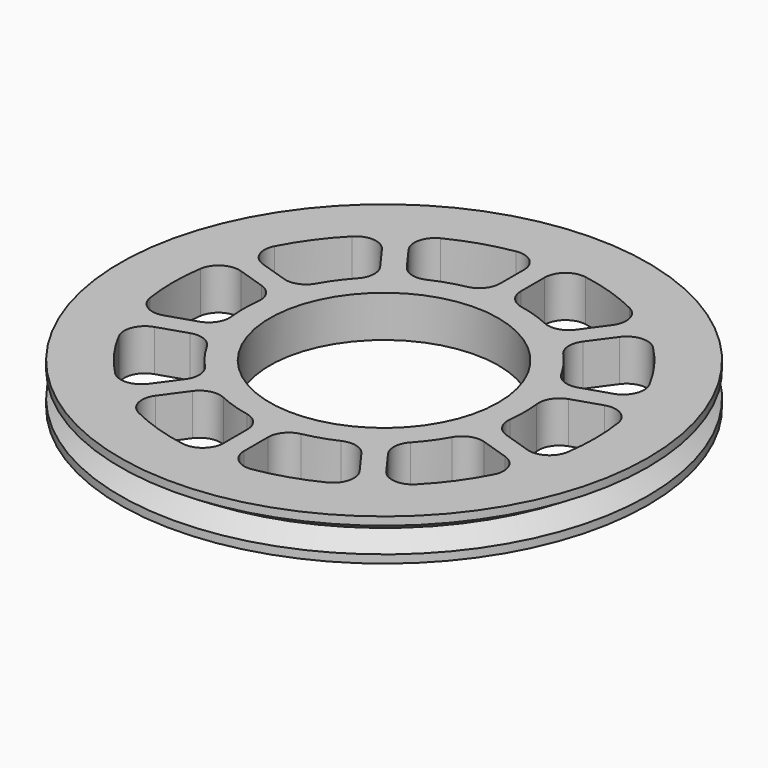
from build123d import *

# Parameters (mm, degrees)
F0_R     = 25.4
F0_R_2   = 11
F1_DEPTH = 2


with BuildPart() as f1:
    # F0 (on Top) → F1 (new body, symmetric)
    with BuildSketch(Plane.XY):
        Circle(F0_R)
        with BuildLine():
            ThreePointArc((-9.090554, -18.173173), (-10.138809, -16.858575), (-9.813848, -15.208905))
            Line((-9.813848, -15.208905), (-8.129378, -12.890431))
            ThreePointArc((-8.129378, -12.890431), (-7.014806, -12.130407), (-5.671171, -12.251033))
            ThreePointArc((-5.671171, -12.251033), (-4.171729, -12.839263), (-2.612903, -13.244725))
            ThreePointArc((-2.612903, -13.244725), (-1.454977, -13.936905), (-1, -15.206906))
            Line((-1, -15.206906), (-1, -18.072698))
            ThreePointArc((-1, -18.072698), (-1.706753, -19.598316), (-3.327511, -20.0457))
            ThreePointArc((-3.327511, -20.0457), (-6.279225, -19.325468), (-9.090554, -18.173173))
        make_face(mode=Mode.SUBTRACT)
        with BuildLine():
            ThreePointArc((-18.036336, -9.359113), (-18.11169, -7.679431), (-16.87914, -6.535827))
            Line((-16.87914, -6.535827), (-14.15361, -5.650249))
            ThreePointArc((-14.15361, -5.650249), (-12.805172, -5.690506), (-11.78905, -6.577864))
            ThreePointArc((-11.78905, -6.577864), (-10.921729, -7.935101), (-9.898937, -9.179382))
            ThreePointArc((-9.898937, -9.179382), (-9.369008, -10.419979), (-9.747412, -11.71486))
            Line((-9.747412, -11.71486), (-11.431882, -14.033334))
            ThreePointArc((-11.431882, -14.033334), (-12.900393, -14.852167), (-14.474579, -14.26145))
            ThreePointArc((-14.474579, -14.26145), (-16.439225, -11.943796), (-18.036336, -9.359113))
        make_face(mode=Mode.SUBTRACT)
        with BuildLine():
            ThreePointArc((-20.092851, 3.029811), (-19.166522, 4.432995), (-17.497174, 4.633714))
            Line((-17.497174, 4.633714), (-14.771644, 3.748136))
            ThreePointArc((-14.771644, 3.748136), (-13.704397, 2.922975), (-13.403913, 1.607826))
            ThreePointArc((-13.403913, 1.607826), (-13.5, 0), (-13.403913, -1.607826))
            ThreePointArc((-13.403913, -1.607826), (-13.704397, -2.922975), (-14.771644, -3.748136))
            Line((-14.771644, -3.748136), (-17.497174, -4.633714))
            ThreePointArc((-17.497174, -4.633714), (-19.166522, -4.432995), (-20.092851, -3.029811))
            ThreePointArc((-20.092851, -3.029811), (-20.32, 0), (-20.092851, 3.029811))
        make_face(mode=Mode.SUBTRACT)
        Circle(F0_R_2, mode=Mode.SUBTRACT)
        with BuildLine():
            ThreePointArc((3.327511, -20.0457), (1.706753, -19.598316), (1, -18.072698))
            Line((1, -18.072698), (1, -15.206906))
            ThreePointArc((1, -15.206906), (1.454977, -13.936905), (2.612903, -13.244725))
            ThreePointArc((2.612903, -13.244725), (4.171729, -12.839263), (5.671171, -12.251033))
            ThreePointArc((5.671171, -12.251033), (7.014806, -12.130407), (8.129378, -12.890431))
            Line((8.129378, -12.890431), (9.813848, -15.208905))
            ThreePointArc((9.813848, -15.208905), (10.138809, -16.858575), (9.090554, -18.173173))
            ThreePointArc((9.090554, -18.173173), (6.279225, -19.325468), (3.327511, -20.0457))
        make_face(mode=Mode.SUBTRACT)
        with BuildLine():
            ThreePointArc((14.474579, -14.26145), (12.900393, -14.852167), (11.431882, -14.033334))
            Line((11.431882, -14.033334), (9.747412, -11.71486))
            ThreePointArc((9.747412, -11.71486), (9.369008, -10.419979), (9.898937, -9.179382))
            ThreePointArc((9.898937, -9.179382), (10.921729, -7.935101), (11.78905, -6.577864))
            ThreePointArc((11.78905, -6.577864), (12.805172, -5.690506), (14.15361, -5.650249))
            Line((14.15361, -5.650249), (16.87914, -6.535827))
            ThreePointArc((16.87914, -6.535827), (18.11169, -7.679431), (18.036336, -9.359113))
            ThreePointArc((18.036336, -9.359113), (16.439225, -11.943796), (14.474579, -14.26145))
        make_face(mode=Mode.SUBTRACT)
        with BuildLine():
            ThreePointArc((20.092851, -3.029811), (19.166522, -4.432995), (17.497174, -4.633714))
            Line((17.497174, -4.633714), (14.771644, -3.748136))
            ThreePointArc((14.771644, -3.748136), (13.704397, -2.922975), (13.403913, -1.607826))
            ThreePointArc((13.403913, -1.607826), (13.5, 0), (13.403913, 1.607826))
            ThreePointArc((13.403913, 1.607826), (13.704397, 2.922975), (14.771644, 3.748136))
            Line((14.771644, 3.748136), (17.497174, 4.633714))
            ThreePointArc((17.497174, 4.633714), (19.166522, 4.432995), (20.092851, 3.029811))
            ThreePointArc((20.092851, 3.029811), (20.32, 0), (20.092851, -3.029811))
        make_face(mode=Mode.SUBTRACT)
        with BuildLine():
            ThreePointArc((-14.474579, 14.26145), (-12.900393, 14.852167), (-11.431882, 14.033334))
            Line((-11.431882, 14.033334), (-9.747412, 11.71486))
            ThreePointArc((-9.747412, 11.71486), (-9.369008, 10.419979), (-9.898937, 9.179382))
            ThreePointArc((-9.898937, 9.179382), (-10.921729, 7.935101), (-11.78905, 6.577864))
            ThreePointArc((-11.78905, 6.577864), (-12.805172, 5.690506), (-14.15361, 5.650249))
            Line((-14.15361, 5.650249), (-16.87914, 6.535827))
            ThreePointArc((-16.87914, 6.535827), (-18.11169, 7.679431), (-18.036336, 9.359113))
            ThreePointArc((-18.036336, 9.359113), (-16.439225, 11.943796), (-14.474579, 14.26145))
        make_face(mode=Mode.SUBTRACT)
        with BuildLine():
            ThreePointArc((-9.090554, 18.173173), (-6.279225, 19.325468), (-3.327511, 20.0457))
            ThreePointArc((-3.327511, 20.0457), (-1.706753, 19.598316), (-1, 18.072698))
            Line((-1, 18.072698), (-1, 15.206906))
            ThreePointArc((-1, 15.206906), (-1.454977, 13.936905), (-2.612903, 13.244725))
            ThreePointArc((-2.612903, 13.244725), (-4.171729, 12.839263), (-5.671171, 12.251033))
            ThreePointArc((-5.671171, 12.251033), (-7.014806, 12.130407), (-8.129378, 12.890431))
            Line((-8.129378, 12.890431), (-9.813848, 15.208905))
            ThreePointArc((-9.813848, 15.208905), (-10.138809, 16.858575), (-9.090554, 18.173173))
        make_face(mode=Mode.SUBTRACT)
        with BuildLine():
            ThreePointArc((18.036336, 9.359113), (18.11169, 7.679431), (16.87914, 6.535827))
            Line((16.87914, 6.535827), (14.15361, 5.650249))
            ThreePointArc((14.15361, 5.650249), (12.805172, 5.690506), (11.78905, 6.577864))
            ThreePointArc((11.78905, 6.577864), (10.921729, 7.935101), (9.898937, 9.179382))
            ThreePointArc((9.898937, 9.179382), (9.369008, 10.419979), (9.747412, 11.71486))
            Line((9.747412, 11.71486), (11.431882, 14.033334))
            ThreePointArc((11.431882, 14.033334), (12.900393, 14.852167), (14.474579, 14.26145))
            ThreePointArc((14.474579, 14.26145), (16.439225, 11.943796), (18.036336, 9.359113))
        make_face(mode=Mode.SUBTRACT)
        with BuildLine():
            Line((1, 15.206906), (1, 18.072698))
            ThreePointArc((1, 18.072698), (1.706753, 19.598316), (3.327511, 20.0457))
            ThreePointArc((3.327511, 20.0457), (6.279225, 19.325468), (9.090554, 18.173173))
            ThreePointArc((9.090554, 18.173173), (10.138809, 16.858575), (9.813848, 15.208905))
            Line((9.813848, 15.208905), (8.129378, 12.890431))
            ThreePointArc((8.129378, 12.890431), (7.014806, 12.130407), (5.671171, 12.251033))
            ThreePointArc((5.671171, 12.251033), (4.171729, 12.839263), (2.612903, 13.244725))
            ThreePointArc((2.612903, 13.244725), (1.454977, 13.936905), (1, 15.206906))
        make_face(mode=Mode.SUBTRACT)
    extrude(amount=F1_DEPTH, both=True)

    # F2 (on Right) → F3 (revolve, cut)
    with BuildSketch(Plane.YZ):
        Polygon((-25.4442, 1.243426), (-25.4442, 0), (-23.4442, 0), align=None)
        Polygon((-23.4442, 0), (-25.4442, 0), (-25.4442, -1.243426), align=None)
    revolve(axis=Axis((0, 0, -6.003845), (0, 0, 1)), mode=Mode.SUBTRACT)


solid = f1.part
